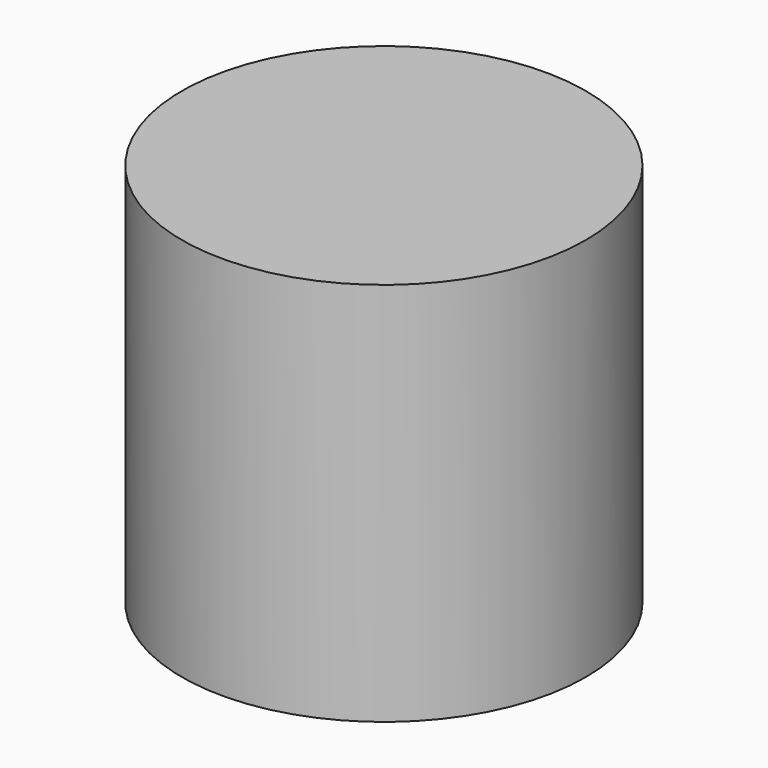
from build123d import *

# Parameters (mm, degrees)
F0_R      = 40
F1_DEPTH  = 76.2
F2_R      = 10.5
F3_DEPTH  = 63.5
F4_W      = 7.348393
F4_H      = 15.5
F5_DEPTH  = 53.34
F7_W      = 15.24
F7_H      = 15
F8_DEPTH  = 15.24
F9_W      = 30
F9_H      = 15
F10_DEPTH = 13


with BuildPart() as f1:
    # F0 (on Top) → F1 (new body)
    with BuildSketch(Plane.XY):
        Circle(F0_R)
    extrude(amount=F1_DEPTH)

    # F2 (on Top) → F3 (cut)
    with BuildSketch(Plane.XY):
        Circle(F2_R)
    extrude(amount=F3_DEPTH, mode=Mode.SUBTRACT)

    # F4 (on Top) → F5 (cut)
    with BuildSketch(Plane.XY):
        with Locations((11.025803, -0.5)):
            Rectangle(F4_W, F4_H)
    extrude(amount=F5_DEPTH, mode=Mode.SUBTRACT)

    # F7 (on offset) → F8 (cut)
    with BuildSketch(Plane.XY.offset(53.5)):
        with Locations((-7.62, 0)):
            Rectangle(F7_W, F7_H)
    extrude(amount=-F8_DEPTH, mode=Mode.SUBTRACT)

    # F9 (on Front) → F10 (cut)
    with BuildSketch(Plane.XZ):
        with Locations((0, 45.916821)):
            Rectangle(F9_W, F9_H)
    extrude(amount=-F10_DEPTH, mode=Mode.SUBTRACT)


solid = f1.part
